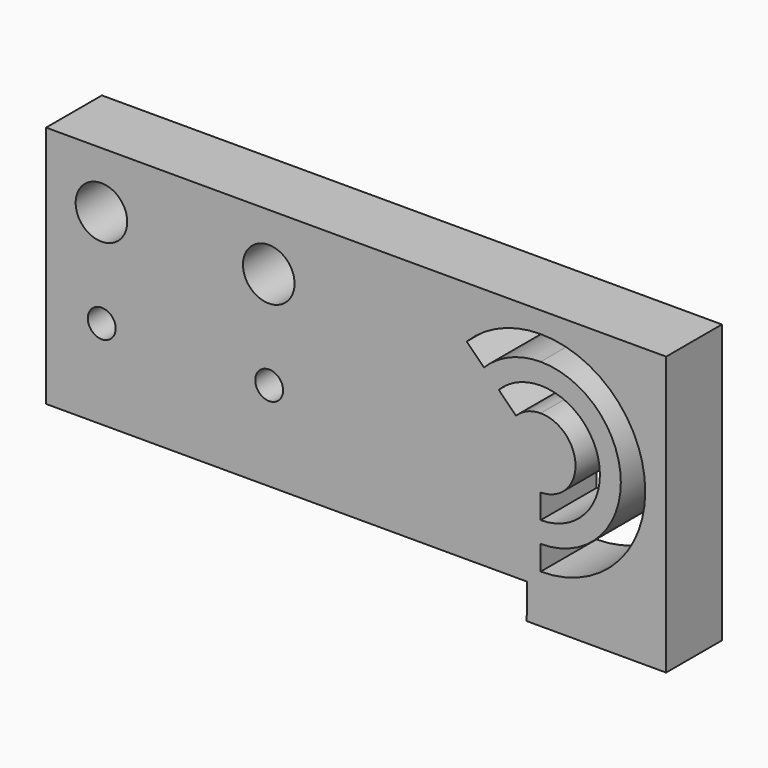
from build123d import *

# Parameters (mm, degrees)
F0_R     = 1
F0_R_2   = 1.85
F1_DEPTH = 5


with BuildPart() as f1:
    # F0 (on Front) → F1 (new body)
    with BuildSketch(Plane.XZ):
        Polygon((10, 0), (10, 19.95), (1, 19.95), (-34.47, 19.95), (-34.47, 2.5), (-30.48, 2.5), (0.02, 2.5), (0, 0), align=None)
        with Locations((-30.48, 8.88)):
            Circle(F0_R, mode=Mode.SUBTRACT)
        with Locations((-18.47, 8.88)):
            Circle(F0_R, mode=Mode.SUBTRACT)
        with Locations((-30.5, 15.89)):
            Circle(F0_R_2, mode=Mode.SUBTRACT)
        with Locations((-18.5, 15.89)):
            Circle(F0_R_2, mode=Mode.SUBTRACT)
        with BuildLine():
            ThreePointArc((-2.005204, 13.955204), (-0.626405, 14.876488), (1, 15.2))
            ThreePointArc((1, 15.2), (5.25, 10.95), (1, 6.7))
            Line((1, 6.7), (1, 8.45))
            ThreePointArc((1, 8.45), (3.5, 10.95), (1, 13.45))
            ThreePointArc((1, 13.45), (0.043291, 13.259699), (-0.767767, 12.717767))
            Line((-0.767767, 12.717767), (-2.005204, 13.955204))
        make_face(mode=Mode.SUBTRACT)
        with BuildLine():
            ThreePointArc((-4.303301, 16.253301), (-1.870126, 17.879096), (1, 18.45))
            ThreePointArc((1, 18.45), (8.5, 10.95), (1, 3.45))
            Line((1, 3.45), (1, 5.2))
            ThreePointArc((1, 5.2), (6.75, 10.95), (1, 16.7))
            ThreePointArc((1, 16.7), (-1.20043, 16.262307), (-3.065864, 15.015864))
            Line((-3.065864, 15.015864), (-4.303301, 16.253301))
        make_face(mode=Mode.SUBTRACT)
    extrude(amount=-F1_DEPTH)


solid = f1.part
